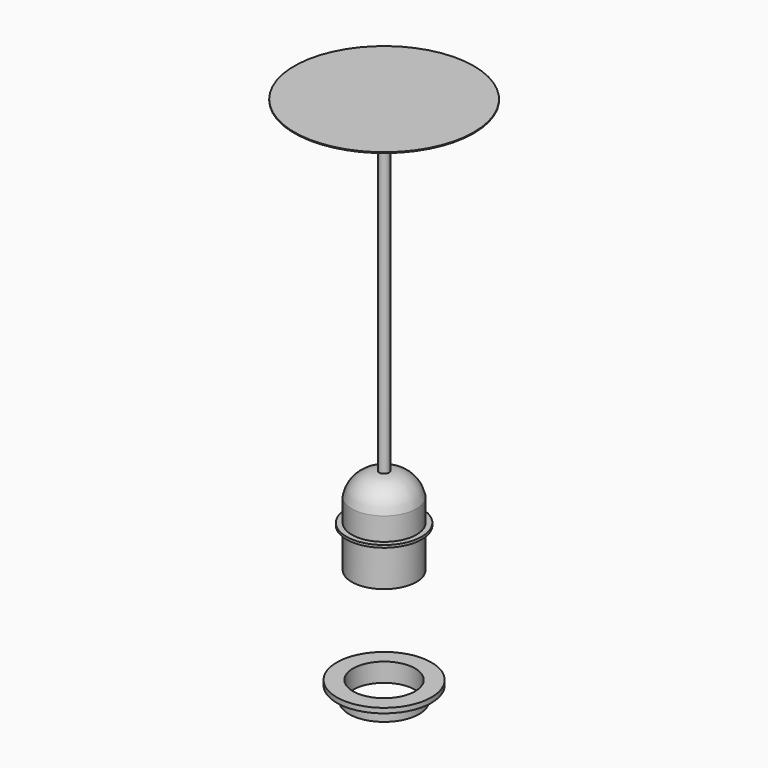
from build123d import *


with BuildPart() as f1:
    # F0 (on Front) → F1 (revolve)
    with BuildSketch(Plane.XZ):
        with BuildLine():
            Line((0, 282.864604), (0, 58.841434))
            Line((0, 58.841434), (12, 58.841434))
            Line((12, 58.841434), (12, 28.841434))
            Line((12, 28.841434), (19.85, 28.841434))
            Line((19.85, 28.841434), (19.85, 52.841434))
            Line((19.85, 52.841434), (23.1, 52.841434))
            Line((23.1, 52.841434), (23.1, 54.341434))
            Line((23.1, 54.341434), (19.85, 54.341434))
            Line((19.85, 54.341434), (19.85, 68.341434))
            ThreePointArc((19.85, 68.341434), (13.980769, 78.417484), (3, 82.341434))
            Line((3, 82.341434), (3, 282.341434))
            Line((3, 282.341434), (55, 282.341434))
            Line((55, 282.341434), (55, 282.864604))
            Line((55, 282.864604), (0, 282.864604))
        make_face()
    revolve(axis=Axis((0, 0, 20.480106), (0, 0, 1)))


with BuildPart() as f3:
    # F2 (on Front) → F3 (revolve)
    with BuildSketch(Plane.XZ):
        Polygon((21.5, -33.422654), (29, -33.422654), (29, -30.422654), (19, -30.422654), (19, -41.922654), (21.5, -41.922654), align=None)
    revolve(axis=Axis((0, 0, -37.685428), (0, 0, -1)))


solid = Compound([f1.part, f3.part])
